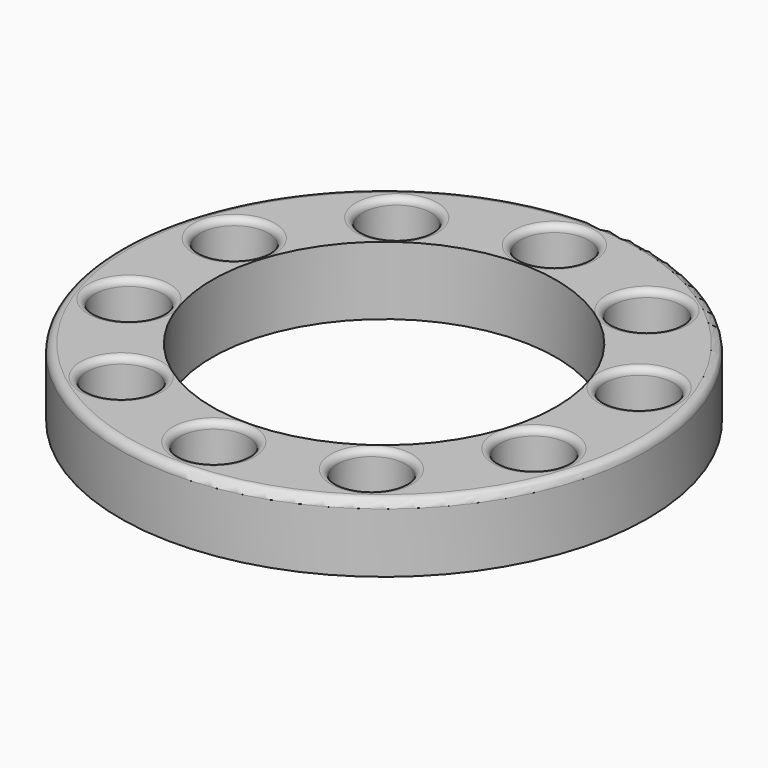
from build123d import *

# Parameters (mm, degrees)
CYLINDER030_R             = 10.1
CYLINDER030_DEPTH         = 4
CYLINDER034_R             = 2
CYLINDER034_DEPTH         = 10
CYLINDER033_R             = 2
CYLINDER033_DEPTH         = 10
FUSION015_PLACEMENT_ANGLE = 54
CYLINDER040_R             = 2
CYLINDER040_DEPTH         = 10
CYLINDER039_R             = 2
CYLINDER039_DEPTH         = 10
FUSION019_PLACEMENT_ANGLE = 162
CYLINDER038_R             = 2
CYLINDER038_DEPTH         = 10
CYLINDER037_R             = 2
CYLINDER037_DEPTH         = 10
FUSION018_PLACEMENT_ANGLE = 126
CYLINDER036_R             = 2
CYLINDER036_DEPTH         = 10
CYLINDER035_R             = 2
CYLINDER035_DEPTH         = 10
FUSION017_PLACEMENT_ANGLE = 90
CYLINDER032_R             = 2
CYLINDER032_DEPTH         = 10
CYLINDER031_R             = 2
CYLINDER031_DEPTH         = 10
FUSION016_PLACEMENT_ANGLE = 18
CYLINDER029_R             = 15.5
CYLINDER029_DEPTH         = 4
FILLET003_R               = 0.39
FILLET004_R               = 0.49


with BuildPart() as cylinder030:
    # Cylinder030 → Cylinder030 (new body)
    with BuildSketch(Plane.XY.offset(22)):
        Circle(CYLINDER030_R)
    extrude(amount=CYLINDER030_DEPTH)


with BuildPart() as cylinder034:
    # Cylinder034 → Cylinder034 (new body)
    with BuildSketch(Plane(origin=(-12.5, 0, 13), x_dir=(1, 0, 0), z_dir=(0, 0, 1))):
        Circle(CYLINDER034_R)
    extrude(amount=CYLINDER034_DEPTH)


with BuildPart() as fusion015:
    # Cylinder033 → Cylinder033 (new body)
    with BuildSketch(Plane(origin=(12.5, 0, 13), x_dir=(1, 0, 0), z_dir=(0, 0, 1))):
        Circle(CYLINDER033_R)
    extrude(amount=CYLINDER033_DEPTH)

    # Fusion015: union Cylinder034
    add(cylinder034.part)


with BuildPart() as fusion015_1:
    # Fusion015 placement: moved
    add(fusion015.part.rotate(Axis((0, 0, 0), (0, 0, 1)), FUSION015_PLACEMENT_ANGLE))


with BuildPart() as cylinder040:
    # Cylinder040 → Cylinder040 (new body)
    with BuildSketch(Plane(origin=(-12.5, 0, 13), x_dir=(1, 0, 0), z_dir=(0, 0, 1))):
        Circle(CYLINDER040_R)
    extrude(amount=CYLINDER040_DEPTH)


with BuildPart() as fusion019:
    # Cylinder039 → Cylinder039 (new body)
    with BuildSketch(Plane(origin=(12.5, 0, 13), x_dir=(1, 0, 0), z_dir=(0, 0, 1))):
        Circle(CYLINDER039_R)
    extrude(amount=CYLINDER039_DEPTH)

    # Fusion019: union Cylinder040
    add(cylinder040.part)


with BuildPart() as fusion019_1:
    # Fusion019 placement: moved
    add(fusion019.part.rotate(Axis((0, 0, 0), (0, 0, 1)), FUSION019_PLACEMENT_ANGLE))


with BuildPart() as cylinder038:
    # Cylinder038 → Cylinder038 (new body)
    with BuildSketch(Plane(origin=(-12.5, 0, 13), x_dir=(1, 0, 0), z_dir=(0, 0, 1))):
        Circle(CYLINDER038_R)
    extrude(amount=CYLINDER038_DEPTH)


with BuildPart() as fusion018:
    # Cylinder037 → Cylinder037 (new body)
    with BuildSketch(Plane(origin=(12.5, 0, 13), x_dir=(1, 0, 0), z_dir=(0, 0, 1))):
        Circle(CYLINDER037_R)
    extrude(amount=CYLINDER037_DEPTH)

    # Fusion018: union Cylinder038
    add(cylinder038.part)


with BuildPart() as fusion018_1:
    # Fusion018 placement: moved
    add(fusion018.part.rotate(Axis((0, 0, 0), (0, 0, 1)), FUSION018_PLACEMENT_ANGLE))


with BuildPart() as cylinder036:
    # Cylinder036 → Cylinder036 (new body)
    with BuildSketch(Plane(origin=(-12.5, 0, 13), x_dir=(1, 0, 0), z_dir=(0, 0, 1))):
        Circle(CYLINDER036_R)
    extrude(amount=CYLINDER036_DEPTH)


with BuildPart() as fusion017:
    # Cylinder035 → Cylinder035 (new body)
    with BuildSketch(Plane(origin=(12.5, 0, 13), x_dir=(1, 0, 0), z_dir=(0, 0, 1))):
        Circle(CYLINDER035_R)
    extrude(amount=CYLINDER035_DEPTH)

    # Fusion017: union Cylinder036
    add(cylinder036.part)


with BuildPart() as fusion017_1:
    # Fusion017 placement: moved
    add(fusion017.part.rotate(Axis((0, 0, 0), (0, 0, 1)), FUSION017_PLACEMENT_ANGLE))


with BuildPart() as cylinder032:
    # Cylinder032 → Cylinder032 (new body)
    with BuildSketch(Plane(origin=(-12.5, 0, 13), x_dir=(1, 0, 0), z_dir=(0, 0, 1))):
        Circle(CYLINDER032_R)
    extrude(amount=CYLINDER032_DEPTH)


with BuildPart() as fusion014:
    # Cylinder031 → Cylinder031 (new body)
    with BuildSketch(Plane(origin=(12.5, 0, 13), x_dir=(1, 0, 0), z_dir=(0, 0, 1))):
        Circle(CYLINDER031_R)
    extrude(amount=CYLINDER031_DEPTH)

    # Fusion016: union Cylinder032
    add(cylinder032.part)


with BuildPart() as fusion014_1:
    # Fusion016 placement: moved
    add(fusion014.part.rotate(Axis((0, 0, 0), (0, 0, 1)), FUSION016_PLACEMENT_ANGLE))

    # Fusion014: union Fusion015, Fusion019, Fusion018, Fusion017
    add(fusion015_1.part)
    add(fusion019_1.part)
    add(fusion018_1.part)
    add(fusion017_1.part)


with BuildPart() as fusion014_2:
    # Fusion014 placement: moved
    add(fusion014_1.part.moved(Location((0, 0, 9))))


with BuildPart() as hub_bolts_cover_middle:
    # Cylinder029 → Cylinder029 (new body)
    with BuildSketch(Plane.XY.offset(22)):
        Circle(CYLINDER029_R)
    extrude(amount=CYLINDER029_DEPTH)

    # Cut010: cut Fusion014
    add(fusion014_2.part, mode=Mode.SUBTRACT)

    # Fillet003
    fillet003_edges = [hub_bolts_cover_middle.edges().sort_by_distance(p)[0] for p in [
        (0, 10.5, 26),
        (8.522886, -11.730746, 26),
        (9.986093, 3.244678, 26),
        (-8.522886, -11.730746, 26),
        (6.171745, 8.494678, 26),
        (13.790319, -4.480746, 26),
        (-13.790319, -4.480746, 26),
        (-6.171745, 8.494678, 26),
        (-9.986093, 3.244678, 26),
        (0, -14.5, 26),
    ]]
    fillet(fillet003_edges, radius=FILLET003_R)

    # Cut011: cut Cylinder030
    add(cylinder030.part, mode=Mode.SUBTRACT)

    # Fillet004
    fillet004_edges = [hub_bolts_cover_middle.edges().sort_by_distance(p)[0] for p in [
        (-15.5, 0, 26),
    ]]
    fillet(fillet004_edges, radius=FILLET004_R)


solid = hub_bolts_cover_middle.part
